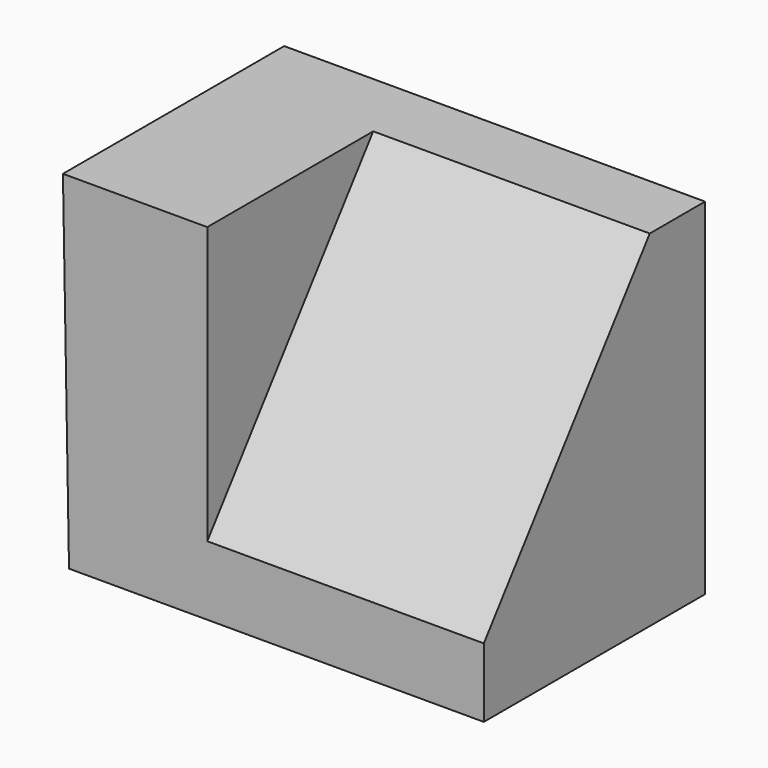
from build123d import *

# Parameters (mm, degrees)
F1_DEPTH = 25.4
F3_DEPTH = 25.4


with BuildPart() as f1:
    # F0 (on Front) → F1 (new body)
    with BuildSketch(Plane.XZ):
        Polygon((-0.558394, 31.75), (0, 0), (38.1, 0), (38.1, 31.75), align=None)
    extrude(amount=F1_DEPTH)

    # F2 (on face) → F3 (cut)
    with BuildSketch(Plane.YZ.offset(38.1)):
        Polygon((-25.4, 6.35), (-6.35, 31.75), (-25.4, 31.75), align=None)
    extrude(amount=-F3_DEPTH, mode=Mode.SUBTRACT)


solid = f1.part
